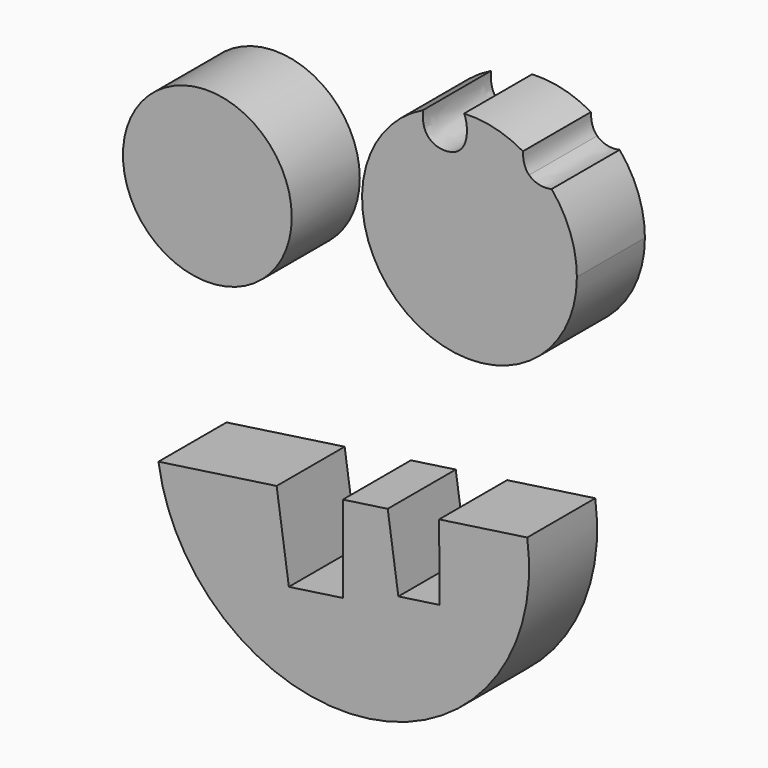
from build123d import *

# Parameters (mm, degrees)
F1_DEPTH = 25
F0_R     = 24.8195677996


with BuildPart() as f1:
    # F0 (on Front) → F1 (new body)
    with BuildSketch(Plane.XZ):
        with BuildLine():
            Line((123.8630347279, 148.3307930557), (89.11960572, 143.3243751526))
            ThreePointArc((89.11960572, 143.3243751526), (151.142437011, 96.9248600304), (197.5419521332, 158.9476913214))
            Line((197.5419521332, 158.9476913214), (171.6322098768, 155.214179656))
            Line((171.6322098768, 155.214179656), (171.7710671958, 133.1199479656))
            Line((171.7710671958, 133.1199479656), (159.6452806425, 131.3726605901))
            Line((159.6452806425, 131.3726605901), (156.5235088705, 153.0370637705))
            Line((156.5235088705, 153.0370637705), (143.3307789266, 151.136033237))
            Line((143.3307789266, 151.136033237), (143.4110715051, 125.685066173))
            Line((143.4110715051, 125.685066173), (127.4574710295, 123.3862029542))
            Line((127.4574710295, 123.3862029542), (123.8630347279, 148.3307930557))
        make_face()
    extrude(amount=F1_DEPTH)


with BuildPart() as f1b:
    # F0 (on Front) → F1, piece 2 (new body)
    with BuildSketch(Plane.XZ):
        with Locations((103.488817811, 219.3185389042)):
            Circle(F0_R)
    extrude(amount=F1_DEPTH)


with BuildPart() as f1c:
    # F0 (on Front) → F1, piece 3 (new body)
    with BuildSketch(Plane.XZ):
        with BuildLine():
            ThreePointArc((166.8678705537, 259.5786950078), (163.750928753, 204.3771076348), (212.1443264481, 231.116771698))
            ThreePointArc((212.1443264481, 231.116771698), (210.2279631008, 241.9510248807), (204.7114230047, 251.4705456604))
            add(Edge.make_bspline(
                [(204.7114230047, 251.4705456604), (203.8078626424, 251.2395767658), (202.7419998137, 251.2395767658)],
                knots=[0.6525044859, 0.6525044859, 0.6525044859, 1, 1, 1], degree=2))
            add(Edge.make_bspline(
                [(202.7419998137, 251.2395767658), (199.9504387875, 251.2395767658), (198.1152458906, 252.9369147972)],
                knots=[0, 0, 0, 1, 1, 1], degree=2))
            add(Edge.make_bspline(
                [(198.1152458906, 252.9369147972), (196.2801487484, 254.6341642668), (196.2800529987, 258.5110163296)],
                knots=[0, 0, 0, 0.9999478231, 0.9999478231, 0.9999478231], degree=2))
            ThreePointArc((196.2800529987, 258.5110163296), (187.9296328653, 261.8291568151), (178.9827488716, 262.6615266189))
            add(Edge.make_bspline(
                [(178.9827488716, 262.6615266189), (179.8063965673, 260.9962071412), (179.8063965673, 258.5114209206)],
                knots=[0.3033950235, 0.3033950235, 0.3033950235, 1, 1, 1], degree=2))
            add(Edge.make_bspline(
                [(179.8063965673, 258.5114209206), (179.8063965673, 255.0650492833), (178.0832107486, 253.1523130246)],
                knots=[0, 0, 0, 1, 1, 1], degree=2))
            add(Edge.make_bspline(
                [(178.0832107486, 253.1523130246), (176.3600249299, 251.2395767658), (173.2927541727, 251.2395767658)],
                knots=[0, 0, 0, 1, 1, 1], degree=2))
            add(Edge.make_bspline(
                [(173.2927541727, 251.2395767658), (170.5011931465, 251.2395767658), (168.6660002496, 252.9369147972)],
                knots=[0, 0, 0, 1, 1, 1], degree=2))
            add(Edge.make_bspline(
                [(168.6660002496, 252.9369147972), (166.8308073527, 254.6342528286), (166.8308073527, 258.5114209206)],
                knots=[0, 0, 0, 1, 1, 1], degree=2))
            add(Edge.make_bspline(
                [(166.8308073527, 258.5114209206), (166.8308073527, 259.0660604448), (166.8678705537, 259.5786950078)],
                knots=[0, 0, 0, 0.0757338042, 0.0757338042, 0.0757338042], degree=2))
        make_face()
    extrude(amount=F1_DEPTH)


solid = Compound([f1.part, f1b.part, f1c.part])
